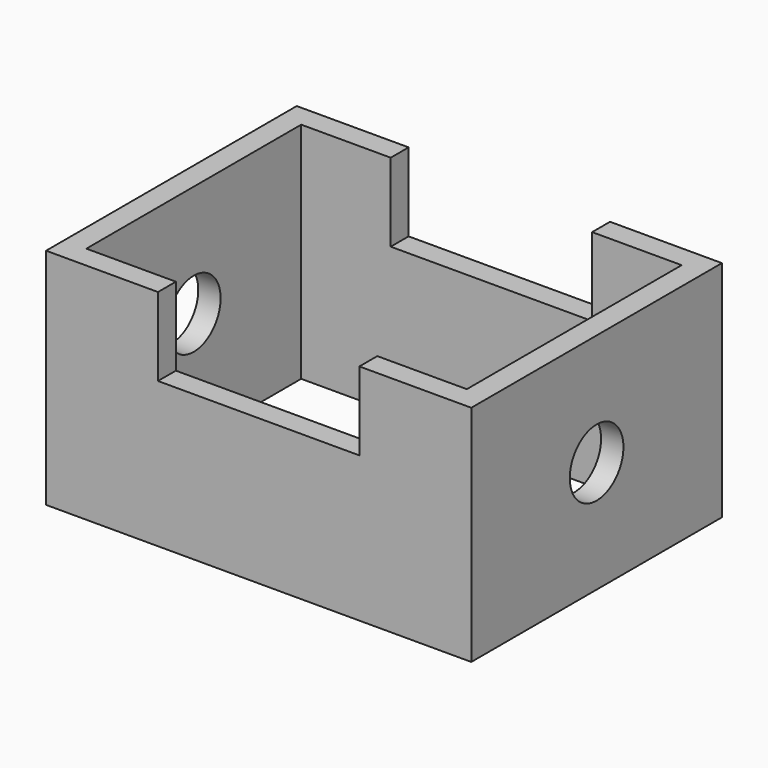
from build123d import *

# Parameters (mm, degrees)
F0_W     = 190
F0_H     = 140
F0_W_2   = 170
F0_H_2   = 120
F1_DEPTH = 100
F2_R     = 15
F3_DEPTH = 190
F4_W     = 90
F4_H     = 35
F5_DEPTH = 140


with BuildPart() as f1:
    # F0 (on Top) → F1 (new body)
    with BuildSketch(Plane.XY):
        Rectangle(F0_W, F0_H)
        Rectangle(F0_W_2, F0_H_2, mode=Mode.SUBTRACT)
    extrude(amount=F1_DEPTH)

    # F2 (on face) → F3 (cut, through all)
    with BuildSketch(Plane(origin=(-95, 0, 0), x_dir=(0, -1, 0), z_dir=(-1, 0, 0))):
        with Locations((0, 50)):
            Circle(F2_R)
    extrude(amount=-F3_DEPTH, mode=Mode.SUBTRACT)

    # F4 (on face) → F5 (cut, through all)
    with BuildSketch(Plane(origin=(0, 70, 0), x_dir=(-1, 0, 0), z_dir=(0, 1, 0))):
        with Locations((0, 82.5)):
            Rectangle(F4_W, F4_H)
    extrude(amount=-F5_DEPTH, mode=Mode.SUBTRACT)


solid = f1.part
